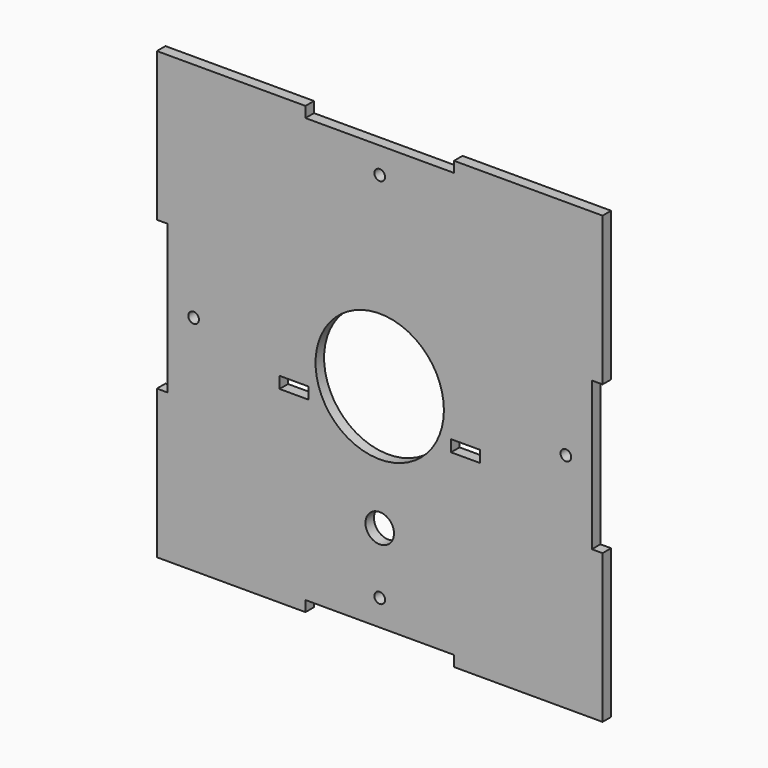
from build123d import *

# Parameters (mm, degrees)
F0_W     = 8.1
F0_H     = 3.25
F0_R     = 1.5
F0_R_2   = 4
F0_R_3   = 18
F1_DEPTH = 3


with BuildPart() as f1:
    # F0 (on Front) → F1 (new body)
    with BuildSketch(Plane.XZ):
        Polygon((-62.5, -20.833333), (-62.5, -62.5), (-20.833333, -62.5), (-20.833333, -59.5), (20.833333, -59.5), (20.833333, -62.5), (62.5, -62.5), (62.5, -20.833333), (59.5, -20.833333), (59.5, 20.833333), (62.5, 20.833333), (62.5, 62.5), (20.833333, 62.5), (20.833333, 59.5), (-20.833333, 59.5), (-20.833333, 62.5), (-62.5, 62.5), (-62.5, 20.833333), (-59.5, 20.833333), (-59.5, -20.833333), align=None)
        with Locations((-24.05, -8.125)):
            Rectangle(F0_W, F0_H, mode=Mode.SUBTRACT)
        with Locations((0, -52.2)):
            Circle(F0_R, mode=Mode.SUBTRACT)
        with Locations((0, -35)):
            Circle(F0_R_2, mode=Mode.SUBTRACT)
        with Locations((24.05, -8.125)):
            Rectangle(F0_W, F0_H, mode=Mode.SUBTRACT)
        with Locations((-52.2, 0)):
            Circle(F0_R, mode=Mode.SUBTRACT)
        Circle(F0_R_3, mode=Mode.SUBTRACT)
        with Locations((52.2, 0)):
            Circle(F0_R, mode=Mode.SUBTRACT)
        with Locations((0, 52.2)):
            Circle(F0_R, mode=Mode.SUBTRACT)
    extrude(amount=F1_DEPTH)


with BuildPart() as f2_1:
    # F2: copy of F1
    add(f1.part.moved(Location((0, 60, 0))))


solid = f1.part
